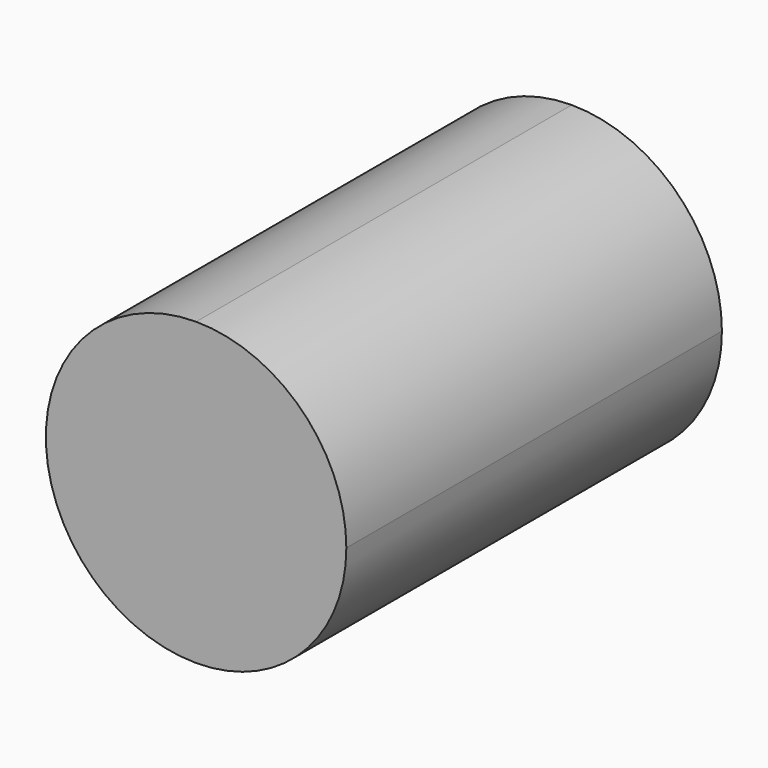
from build123d import *

# Parameters (mm, degrees)
F1_DEPTH = 50


with BuildPart() as f1:
    # F0 (on Front) → F1 (new body)
    with BuildSketch(Plane.XZ):
        with BuildLine():
            Line((0, 32), (0, 0))
            ThreePointArc((0, 0), (11.313708, 4.686292), (16, 16))
            ThreePointArc((16, 16), (11.313708, 27.313708), (0, 32))
        make_face()
        with BuildLine():
            ThreePointArc((0, 32), (-16, 16), (0, 0))
            Line((0, 0), (0, 32))
        make_face()
    extrude(amount=F1_DEPTH)


solid = f1.part
